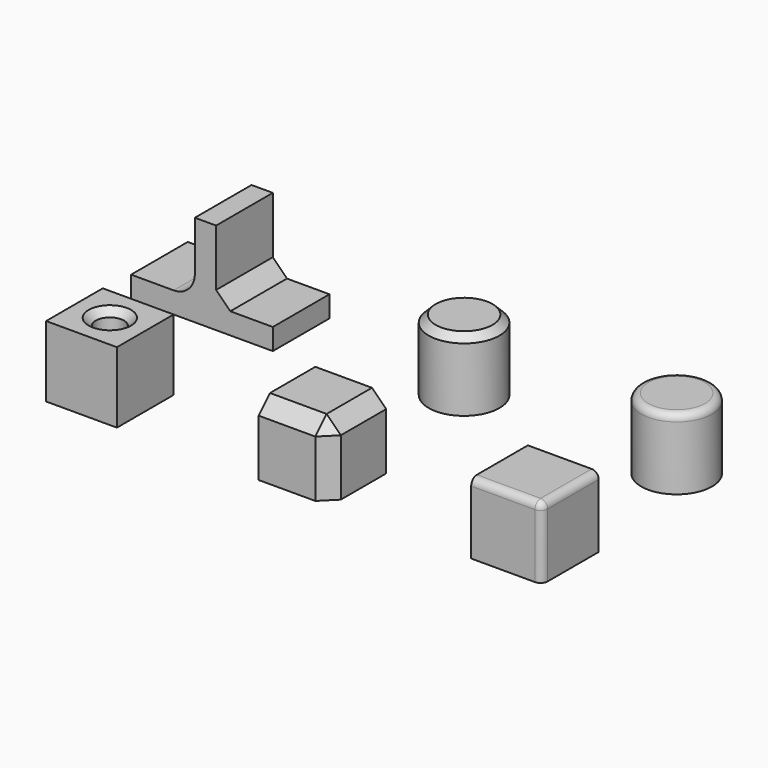
from build123d import *

# Parameters (mm, degrees)
BOX_W             = 10
BOX_H             = 10
BOX_DEPTH         = 10
FILLET_R          = 1
BOX002_W          = 10
BOX002_H          = 10
BOX002_DEPTH      = 10
CHAMFER_SIZE      = 2
CYLINDER_R        = 2
CYLINDER_DEPTH    = 20
BOX001_W          = 10
BOX001_H          = 10
BOX001_DEPTH      = 10
CHAMFER001_SIZE   = 1
CYLINDER001_R     = 5
CYLINDER001_DEPTH = 10
FILLET001_R       = 1
CYLINDER002_R     = 5
CYLINDER002_DEPTH = 10
CHAMFER002_SIZE   = 1
BOX004_W          = 3
BOX004_H          = 10
BOX004_DEPTH      = 10
BOX003_W          = 20
BOX003_H          = 10
BOX003_DEPTH      = 3
CHAMFER003_SIZE   = 2
FILLET002_R       = 3


with BuildPart() as fillet_body:
    # Box → Box (new body)
    with BuildSketch(Plane(origin=(60, 0, 0), x_dir=(1, 0, 0), z_dir=(0, 0, 1))):
        with Locations((5, 5)):
            Rectangle(BOX_W, BOX_H)
    extrude(amount=BOX_DEPTH)

    # Fillet
    fillet_edges = [fillet_body.edges().sort_by_distance(p)[0] for p in [
        (70, 0, 5),
        (70, 5, 10),
        (65, 0, 10),
    ]]
    fillet(fillet_edges, radius=FILLET_R)


with BuildPart() as chamfer_body:
    # Box002 → Box002 (new body)
    with BuildSketch(Plane(origin=(30, 0, 0), x_dir=(1, 0, 0), z_dir=(0, 0, 1))):
        with Locations((5, 5)):
            Rectangle(BOX002_W, BOX002_H)
    extrude(amount=BOX002_DEPTH)

    # Chamfer
    chamfer_edges = [chamfer_body.edges().sort_by_distance(p)[0] for p in [
        (40, 0, 5),
        (40, 5, 10),
        (35, 0, 10),
    ]]
    chamfer(chamfer_edges, length=CHAMFER_SIZE)


with BuildPart() as cylinder:
    # Cylinder → Cylinder (new body)
    with BuildSketch(Plane(origin=(5, 5, -2), x_dir=(1, 0, 0), z_dir=(0, 0, 1))):
        Circle(CYLINDER_R)
    extrude(amount=CYLINDER_DEPTH)


with BuildPart() as chamfer001:
    # Box001 → Box001 (new body)
    with BuildSketch(Plane.XY):
        with Locations((5, 5)):
            Rectangle(BOX001_W, BOX001_H)
    extrude(amount=BOX001_DEPTH)

    # Cut: cut Cylinder
    add(cylinder.part, mode=Mode.SUBTRACT)

    # Chamfer001
    chamfer001_edges = [chamfer001.edges().sort_by_distance(p)[0] for p in [
        (3, 5, 10),
    ]]
    chamfer(chamfer001_edges, length=CHAMFER001_SIZE)


with BuildPart() as fillet001:
    # Cylinder001 → Cylinder001 (new body)
    with BuildSketch(Plane(origin=(65, 30, 0), x_dir=(1, 0, 0), z_dir=(0, 0, 1))):
        Circle(CYLINDER001_R)
    extrude(amount=CYLINDER001_DEPTH)

    # Fillet001
    fillet001_edges = [fillet001.edges().sort_by_distance(p)[0] for p in [
        (60, 30, 10),
    ]]
    fillet(fillet001_edges, radius=FILLET001_R)


with BuildPart() as chamfer002:
    # Cylinder002 → Cylinder002 (new body)
    with BuildSketch(Plane(origin=(35, 30, 0), x_dir=(1, 0, 0), z_dir=(0, 0, 1))):
        Circle(CYLINDER002_R)
    extrude(amount=CYLINDER002_DEPTH)

    # Chamfer002
    chamfer002_edges = [chamfer002.edges().sort_by_distance(p)[0] for p in [
        (30, 30, 10),
    ]]
    chamfer(chamfer002_edges, length=CHAMFER002_SIZE)


with BuildPart() as box004:
    # Box004 → Box004 (new body)
    with BuildSketch(Plane(origin=(1, 25, 3), x_dir=(1, 0, 0), z_dir=(0, 0, 1))):
        with Locations((1.5, 5)):
            Rectangle(BOX004_W, BOX004_H)
    extrude(amount=BOX004_DEPTH)


with BuildPart() as fillet002:
    # Box003 → Box003 (new body)
    with BuildSketch(Plane(origin=(-8, 25, 0), x_dir=(1, 0, 0), z_dir=(0, 0, 1))):
        with Locations((10, 5)):
            Rectangle(BOX003_W, BOX003_H)
    extrude(amount=BOX003_DEPTH)

    # Fusion: union Box004
    add(box004.part)

    # Chamfer003
    chamfer003_edges = [fillet002.edges().sort_by_distance(p)[0] for p in [
        (4, 30, 3),
    ]]
    chamfer(chamfer003_edges, length=CHAMFER003_SIZE)

    # Fillet002
    fillet002_edges = [fillet002.edges().sort_by_distance(p)[0] for p in [
        (1, 30, 3),
    ]]
    fillet(fillet002_edges, radius=FILLET002_R)


solid = Compound([fillet_body.part, chamfer_body.part, chamfer001.part, fillet001.part, chamfer002.part, fillet002.part])
